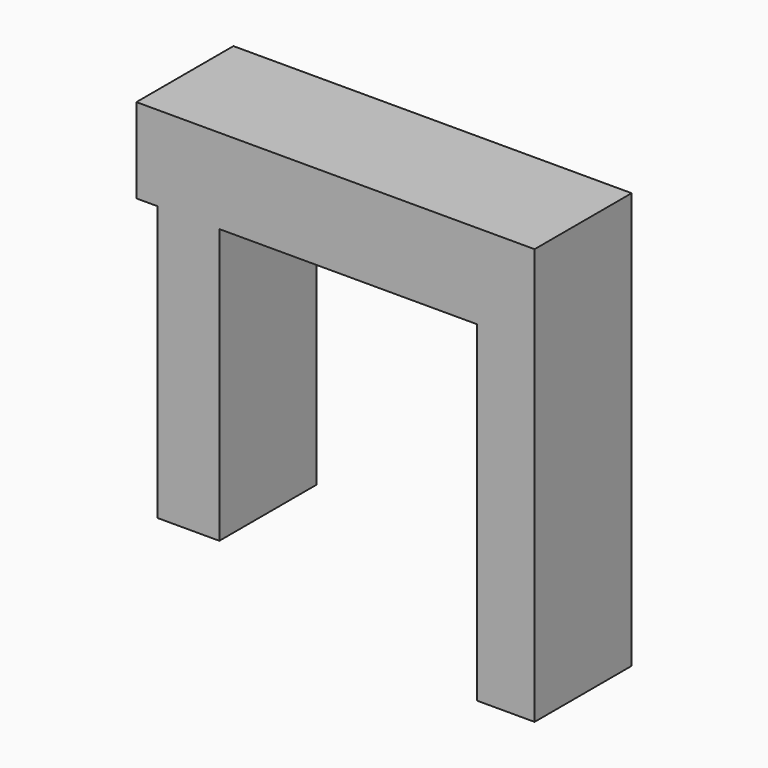
from build123d import *

# Parameters (mm, degrees)
F0_W     = 70.2332556248
F0_H     = 17.4792334437
F0_W_2   = 11.8431299925
F1_DEPTH = 25
F0_H_2   = 68.3041326702
F2_DEPTH = 25
F3_W     = 12.7824991941
F3_H     = 73.9819798619
F4_DEPTH = 25


with BuildPart() as f1:
    # F0 (on Front) → F1 (new body)
    with BuildSketch(Plane.XZ):
        with Locations((-3.1356401742, 42.5850078464)):
            Rectangle(F0_W, F0_H)
        with Locations((37.9025526345, 42.5850078464)):
            Rectangle(F0_W_2, F0_H)
    extrude(amount=F1_DEPTH)

    # F0 (on Front) → F2 (join)
    with BuildSketch(Plane.XZ):
        with Locations((37.9025526345, -0.3066752106)):
            Rectangle(F0_W_2, F0_H_2)
        with Locations((37.9025526345, 42.5850078464)):
            Rectangle(F0_W_2, F0_H)
    extrude(amount=F2_DEPTH)

    # F3 (on Front) → F4 (join)
    with BuildSketch(Plane.XZ):
        with Locations((-27.5457836688, 14.2613416538)):
            Rectangle(F3_W, F3_H)
    extrude(amount=F4_DEPTH)


solid = f1.part
